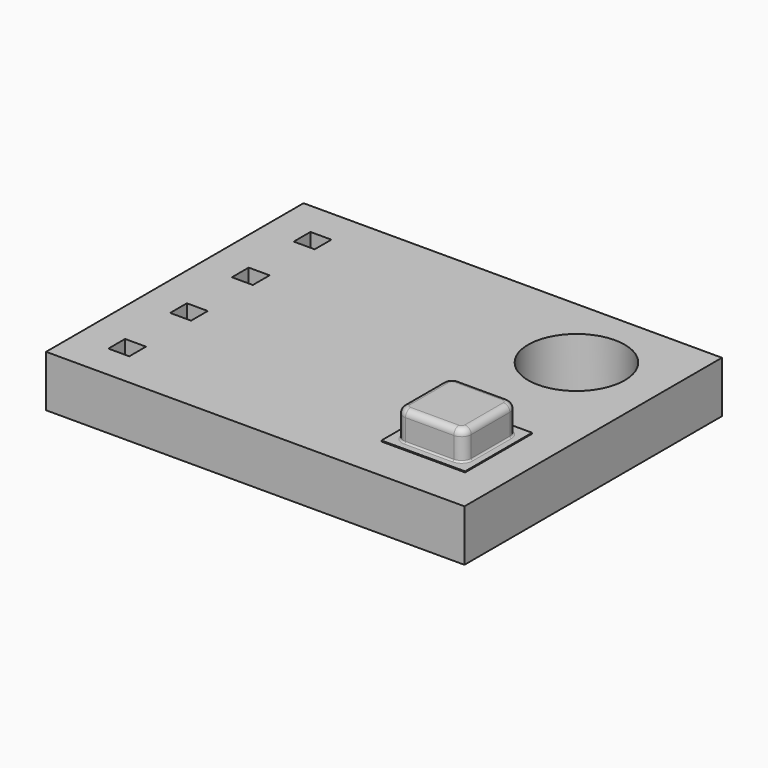
from build123d import *

# Parameters (mm, degrees)
SKETCH_W      = 13
SKETCH_H      = 10
PAD_DEPTH     = 1.6
SKETCH001_R   = 1.5
SKETCH001_W   = 0.65
SKETCH001_H   = 0.65
POCKET_DEPTH  = 5
SKETCH002_W   = 2.6
SKETCH002_H   = 2.6
PAD001_DEPTH  = 0.03
SKETCH003_W   = 2.1
SKETCH003_H   = 2.1
PAD002_DEPTH  = 0.9
FILLET_R      = 0.3
FILLET001_R   = 0.05
FILLET002_R   = 0.2
SKETCH004_W   = 1.1
SKETCH004_H   = 2
SKETCH004_W_2 = 1.5
SKETCH004_H_2 = 0.9
SKETCH004_H_3 = 0.75
SKETCH004_H_4 = 2.9
SKETCH004_W_3 = 3.2
SKETCH004_H_5 = 1.4
SKETCH004_W_4 = 0.8
SKETCH004_H_6 = 1.6
PAD003_DEPTH  = 0.27


with BuildPart() as part:
    # Sketch → Pad (new body)
    with BuildSketch(Plane.XY):
        with Locations((6.5, 5)):
            Rectangle(SKETCH_W, SKETCH_H)
    extrude(amount=PAD_DEPTH)

    # Sketch001 → Pocket (cut)
    with BuildSketch(Plane.XY):
        with Locations((10.4, 7.6)):
            Circle(SKETCH001_R)
        with Locations((1.4, 8.6)):
            Rectangle(SKETCH001_W, SKETCH001_H)
        with Locations((1.4, 6.2)):
            Rectangle(SKETCH001_W, SKETCH001_H)
        with Locations((1.4, 3.8)):
            Rectangle(SKETCH001_W, SKETCH001_H)
        with Locations((1.4, 1.4)):
            Rectangle(SKETCH001_W, SKETCH001_H)
    extrude(amount=POCKET_DEPTH, mode=Mode.SUBTRACT)

    # Sketch002 (on Face5 of Pocket) → Pad001 (join)
    with BuildSketch(Plane.XY.offset(1.6)):
        with Locations((10.6, 2.7)):
            Rectangle(SKETCH002_W, SKETCH002_H)
    extrude(amount=PAD001_DEPTH)

    # Sketch003 (on Face28 of Pad001) → Pad002 (join)
    with BuildSketch(Plane.XY.offset(1.63)):
        with Locations((10.6, 2.7)):
            Rectangle(SKETCH003_W, SKETCH003_H)
    extrude(amount=PAD002_DEPTH)

    # Fillet
    fillet_edges = [part.edges().sort_by_distance(p)[0] for p in [
        (9.55, 1.65, 2.08),
        (9.55, 3.75, 2.08),
        (11.65, 1.65, 2.08),
        (11.65, 3.75, 2.08),
    ]]
    fillet(fillet_edges, radius=FILLET_R)

    # Fillet001
    fillet001_edges = [part.edges().sort_by_distance(p)[0] for p in [
        (9.637868, 1.737868, 1.63),
    ]]
    fillet(fillet001_edges, radius=FILLET001_R)

    # Fillet002
    fillet002_edges = [part.edges().sort_by_distance(p)[0] for p in [
        (10.6, 1.65, 2.53),
    ]]
    fillet(fillet002_edges, radius=FILLET002_R)

    # Sketch004 (on Face53 of Fillet002) → Pad003 (join)
    with BuildSketch(Plane(origin=(0, 0, 0), x_dir=(1, 0, 0), z_dir=(0, 0, -1))):
        with Locations((5.65, -2.1)):
            Rectangle(SKETCH004_W, SKETCH004_H)
        with Locations((8.7, -1.35)):
            Rectangle(SKETCH004_W_2, SKETCH004_H_2)
        with Locations((8.7, -2.95)):
            Rectangle(SKETCH004_W_2, SKETCH004_H_2)
        with Locations((8.7, -4.425)):
            Rectangle(SKETCH004_W_2, SKETCH004_H_3)
        with Locations((5.85, -7.65)):
            Rectangle(SKETCH004_W, SKETCH004_H_4)
        with Locations((4.8, -4.8)):
            Rectangle(SKETCH004_W_3, SKETCH004_H_5)
        with Locations((3.3, -8)):
            Rectangle(SKETCH004_W_4, SKETCH004_H_6)
    extrude(amount=PAD003_DEPTH)


with BuildPart() as part_1:
    # Body placement: moved
    add(part.part.moved(Location((0, 0, 1))))


solid = part_1.part
